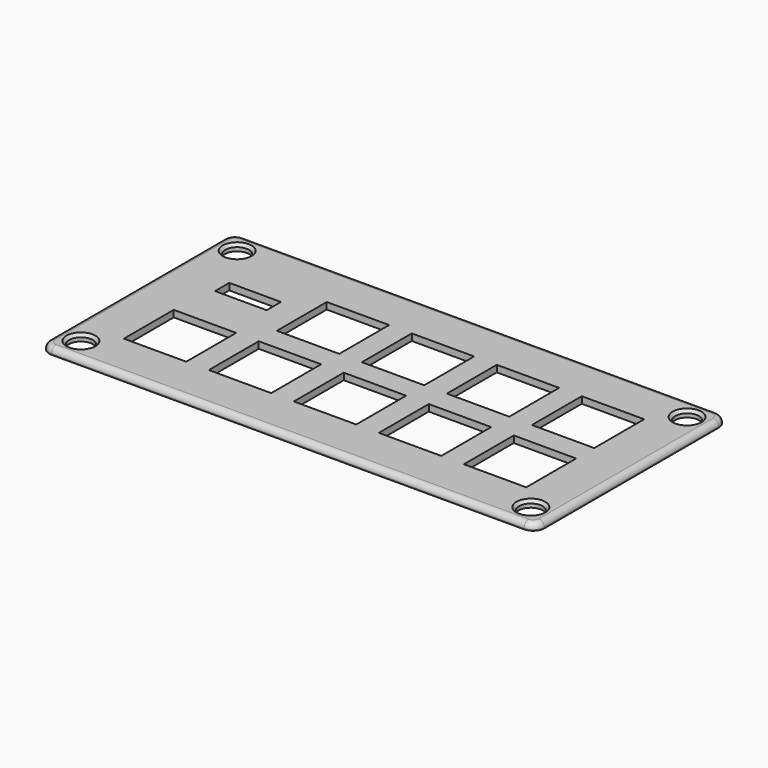
from build123d import *

# Parameters (mm, degrees)
F0_W           = 14
F0_H           = 14
F0_W_2         = 11.6
F0_H_2         = 4
F1_DEPTH       = 1.5
F2_D           = 5.3086
F2_CSINK_D     = 6.477
F2_CSINK_ANGLE = 82
F3_R           = 1.27


with BuildPart() as f1:
    # F0 (on Top) → F1 (new body)
    with BuildSketch(Plane.XY):
        with BuildLine():
            ThreePointArc((0, 2.54), (0.7439487758, 0.7439487758), (2.54, 0))
            Line((2.54, 0), (108.585, 0))
            ThreePointArc((108.585, 0), (110.3810512242, 0.7439487758), (111.125, 2.54))
            Line((111.125, 2.54), (111.125, 51.435))
            ThreePointArc((111.125, 51.435), (110.3810512242, 53.2310512242), (108.585, 53.975))
            Line((108.585, 53.975), (2.54, 53.975))
            ThreePointArc((2.54, 53.975), (0.7439487758, 53.2310512242), (0, 51.435))
            Line((0, 51.435), (0, 2.54))
        make_face()
        with Locations((17.4117, 17.4475)):
            Rectangle(F0_W, F0_H, mode=Mode.SUBTRACT)
        with Locations((36.4871, 17.4475)):
            Rectangle(F0_W, F0_H, mode=Mode.SUBTRACT)
        with Locations((55.5625, 17.4475)):
            Rectangle(F0_W, F0_H, mode=Mode.SUBTRACT)
        with Locations((74.6379, 17.4475)):
            Rectangle(F0_W, F0_H, mode=Mode.SUBTRACT)
        with Locations((93.7133, 17.4475)):
            Rectangle(F0_W, F0_H, mode=Mode.SUBTRACT)
        with Locations((17.4117, 36.5229)):
            Rectangle(F0_W_2, F0_H_2, mode=Mode.SUBTRACT)
        with Locations((36.4871, 36.5229)):
            Rectangle(F0_W, F0_H, mode=Mode.SUBTRACT)
        with Locations((55.5625, 36.5229)):
            Rectangle(F0_W, F0_H, mode=Mode.SUBTRACT)
        with Locations((74.6379, 36.5229)):
            Rectangle(F0_W, F0_H, mode=Mode.SUBTRACT)
        with Locations((93.7133, 36.5229)):
            Rectangle(F0_W, F0_H, mode=Mode.SUBTRACT)
    extrude(amount=-F1_DEPTH)

    # F2 (through all)
    with Locations(Plane.XY):
        with Locations((5.08, 48.895), (5.08, 5.08), (106.045, 5.08), (106.045, 48.895)):
            CounterSinkHole(F2_D / 2, F2_CSINK_D / 2, counter_sink_angle=F2_CSINK_ANGLE)

    # F3
    f3_edges = [f1.edges().sort_by_distance(p)[0] for p in [
        (55.5625, 0, 0),
        (111.125, 26.9875, 0),
        (110.381051, 0.743949, 0),
        (110.381051, 53.231051, 0),
        (55.5625, 53.975, 0),
        (0.743949, 53.231051, 0),
        (0, 26.9875, 0),
        (0.743949, 0.743949, 0),
    ]]
    fillet(f3_edges, radius=F3_R)


solid = f1.part
